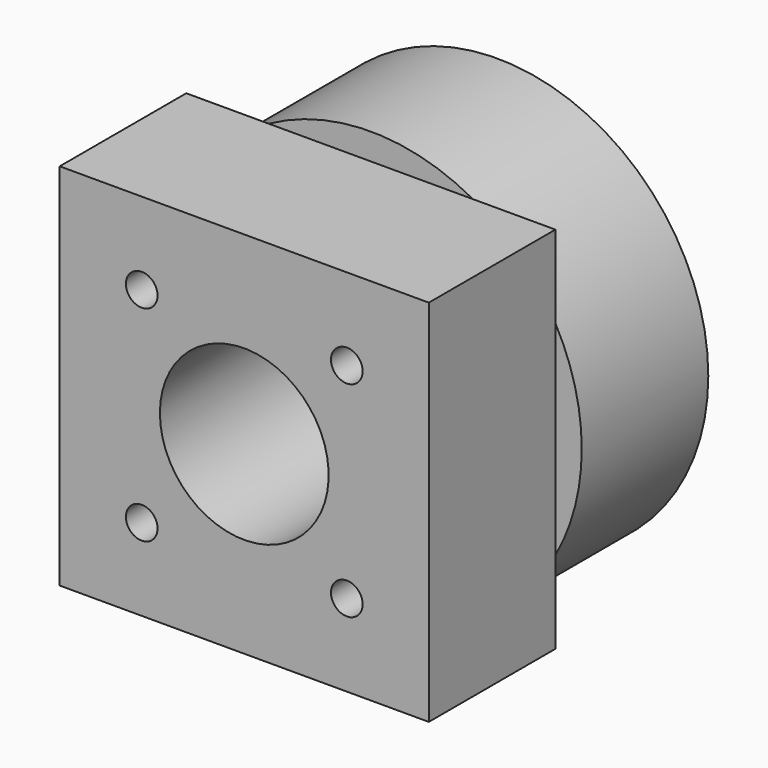
from build123d import *

# Parameters (mm, degrees)
F0_R      = 40
F1_DEPTH  = 30
F2_W      = 70
F2_H      = 70
F3_DEPTH  = 30
F4_R      = 16
F5_DEPTH  = 60.001
F6_R      = 25
F7_DEPTH  = 7
F8_R      = 2.5
F9_DEPTH  = 25
F10_R     = 3
F11_DEPTH = 25


with BuildPart() as f1:
    # F0 (on Front) → F1 (new body)
    with BuildSketch(Plane.XZ):
        Circle(F0_R)
    extrude(amount=F1_DEPTH)

    # F2 (on face) → F3 (join)
    with BuildSketch(Plane.XZ.offset(30)):
        Rectangle(F2_W, F2_H)
    extrude(amount=F3_DEPTH)

    # F4 (on face) → F5 (cut, through all)
    with BuildSketch(Plane(origin=(0, 0, 0), x_dir=(-1, 0, 0), z_dir=(0, 1, 0))):
        Circle(F4_R)
    extrude(amount=-F5_DEPTH, mode=Mode.SUBTRACT)

    # F6 (on face) → F7 (cut)
    with BuildSketch(Plane(origin=(0, 0, 0), x_dir=(-1, 0, 0), z_dir=(0, 1, 0))):
        Circle(F6_R)
    extrude(amount=-F7_DEPTH, mode=Mode.SUBTRACT)

    # F8 (on face) → F9 (cut)
    with BuildSketch(Plane(origin=(0, 0, 0), x_dir=(-1, 0, 0), z_dir=(0, 1, 0))):
        with Locations((-22.98097, 22.98097)):
            Circle(F8_R)
        with Locations((22.98097, 22.98097)):
            Circle(F8_R)
        with Locations((22.98097, -22.98097)):
            Circle(F8_R)
        with Locations((-22.98097, -22.98097)):
            Circle(F8_R)
    extrude(amount=-F9_DEPTH, mode=Mode.SUBTRACT)

    # F10 (on face) → F11 (cut)
    with BuildSketch(Plane.XZ.offset(60)):
        with Locations((-19.445436, 19.445436)):
            Circle(F10_R)
        with Locations((19.445436, 19.445436)):
            Circle(F10_R)
        with Locations((19.445436, -19.445436)):
            Circle(F10_R)
        with Locations((-19.445436, -19.445436)):
            Circle(F10_R)
    extrude(amount=-F11_DEPTH, mode=Mode.SUBTRACT)


solid = f1.part
